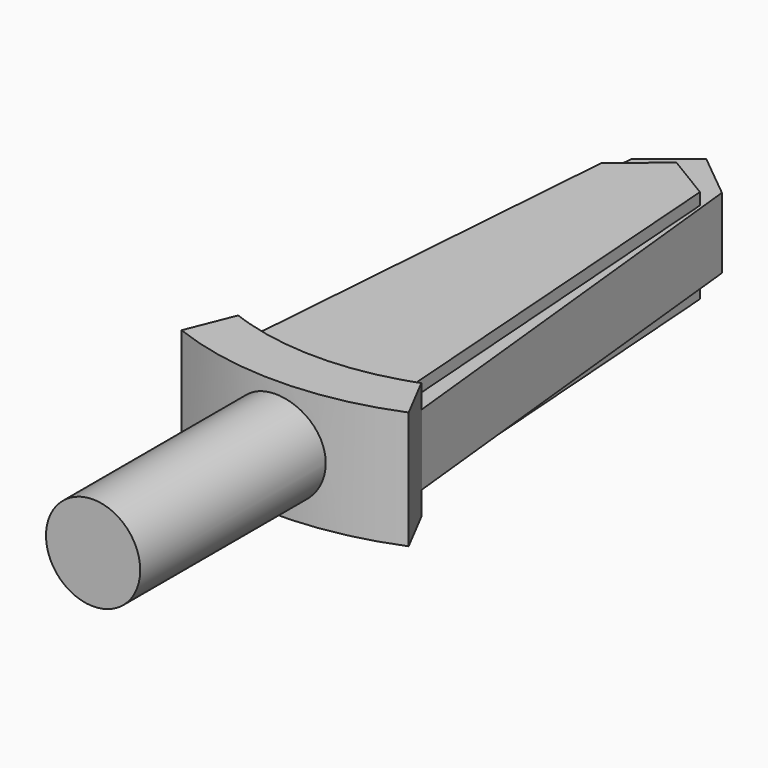
from build123d import *

# Parameters (mm, degrees)
F1_DEPTH = 6.35
F2_R     = 5.08
F3_DEPTH = 25.4
F4_DEPTH = 3.81
F5_DEPTH = 5.08


with BuildPart() as f1:
    # F0 (on Top) → F1 (new body, symmetric)
    with BuildSketch(Plane.XY):
        with BuildLine():
            ThreePointArc((-8.150841, 5.930474), (-9.027019, 6.212621), (-9.893435, 6.523457))
            Line((-9.893435, 6.523457), (-11.928295, 1.434566))
            ThreePointArc((-11.928295, 1.434566), (0.246561, -0.797492), (12.378132, 1.65897))
            Line((12.378132, 1.65897), (9.853429, 6.523457))
            ThreePointArc((9.853429, 6.523457), (8.987013, 6.212621), (8.110835, 5.930474))
            ThreePointArc((8.110835, 5.930474), (-0.020003, 4.722101), (-8.150841, 5.930474))
        make_face()
    extrude(amount=F1_DEPTH, both=True)

    # F2 (on Front) → F3 (join)
    with BuildSketch(Plane.XZ):
        Circle(F2_R)
    extrude(amount=F3_DEPTH)

    # F0 (on Top) → F4 (join, symmetric)
    with BuildSketch(Plane.XY):
        with BuildLine():
            Line((-4.892698, 53.244065), (-9.893435, 6.523457))
            ThreePointArc((-9.893435, 6.523457), (-9.027019, 6.212621), (-8.150841, 5.930474))
            Line((-8.150841, 5.930474), (-4.892698, 49.243495))
            Line((-4.892698, 49.243495), (0, 53.244065))
            Line((0, 53.244065), (4.8927, 50.282495))
            Line((4.8927, 50.282495), (8.110835, 5.930474))
            ThreePointArc((8.110835, 5.930474), (8.987013, 6.212621), (9.853429, 6.523457))
            Line((9.853429, 6.523457), (4.8927, 53.244065))
            Line((4.8927, 53.244065), (0, 57.244636))
            Line((0, 57.244636), (-4.892698, 53.244065))
        make_face()
    extrude(amount=F4_DEPTH, both=True)

    # F0 (on Top) → F5 (join, symmetric)
    with BuildSketch(Plane.XY):
        with BuildLine():
            Line((-4.892698, 49.243495), (-8.150841, 5.930474))
            ThreePointArc((-8.150841, 5.930474), (-0.020003, 4.722101), (8.110835, 5.930474))
            Line((8.110835, 5.930474), (4.8927, 50.282495))
            Line((4.8927, 50.282495), (0, 53.244065))
            Line((0, 53.244065), (-4.892698, 49.243495))
        make_face()
    extrude(amount=F5_DEPTH, both=True)


solid = f1.part
